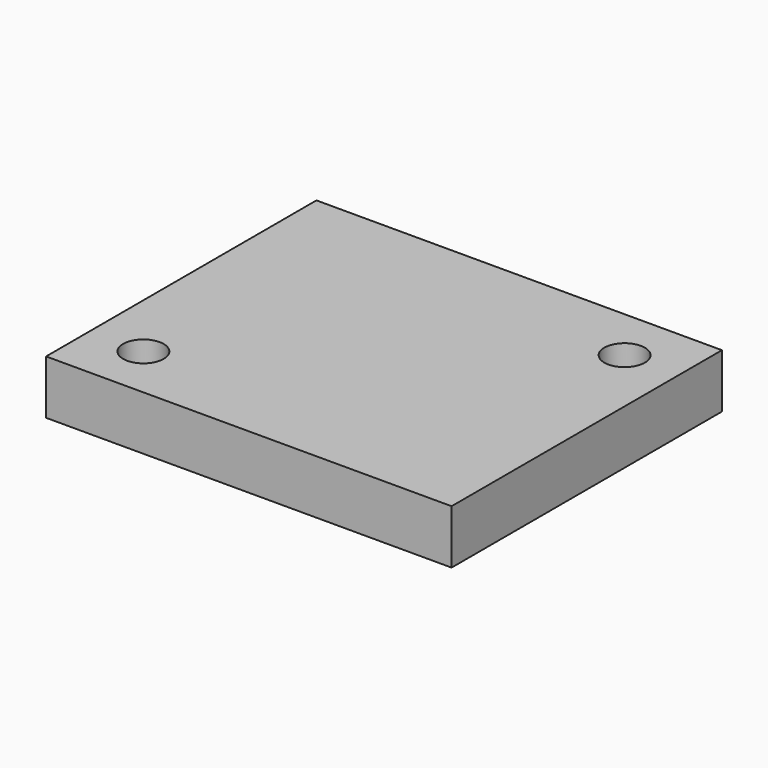
from build123d import *

# Parameters (mm, degrees)
F0_W     = 60
F0_H     = 50
F1_DEPTH = 8
F3_D     = 6
F3_DEPTH = 12


with BuildPart() as f1:
    # F0 (on Top) → F1 (new body)
    with BuildSketch(Plane.XY):
        Rectangle(F0_W, F0_H)
    extrude(amount=F1_DEPTH)

    # F3
    with Locations(Plane.XY.offset(8)):
        with Locations((-22, -17), (22, 17)):
            Hole(F3_D / 2, depth=F3_DEPTH)


solid = f1.part
